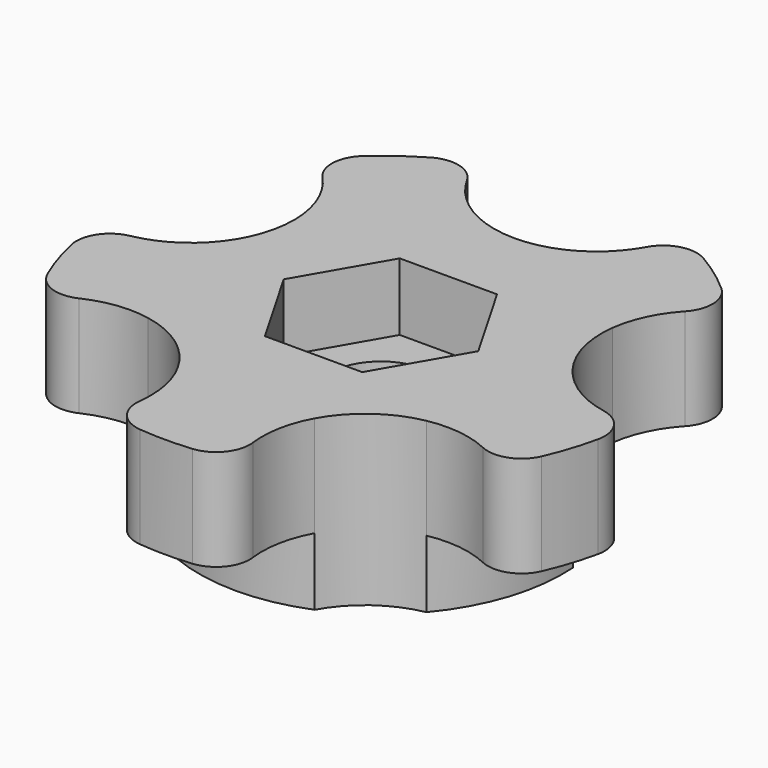
from build123d import *

# Parameters (mm, degrees)
F0_R     = 10.795
F1_DEPTH = 4
F3_DEPTH = 6
F4_R     = 2
F5_R     = 3.05
F6_DEPTH = 25
F8_DEPTH = 4
F9_DEPTH = 25


with BuildPart() as f1:
    # F0 (on Top) → F1 (new body)
    with BuildSketch(Plane.XY):
        Circle(F0_R)
    extrude(amount=F1_DEPTH)

    # F2 (on face) → F3 (join)
    with BuildSketch(Plane.XY.offset(4)):
        with BuildLine():
            ThreePointArc((10.7673628762, 0.7719596449), (9.4157239289, 3.0593541588), (9.164726046, 5.704368633))
            ThreePointArc((9.164726046, 5.704368633), (6.3451417985, 8.7333384543), (2.5931208628, 10.4789192759))
            ThreePointArc((2.5931208628, 10.4789192759), (0, 9.9002780251), (-2.5931208628, 10.4789192759))
            ThreePointArc((-2.5931208628, 10.4789192759), (-6.3451417985, 8.7333384543), (-9.164726046, 5.704368633))
            ThreePointArc((-9.164726046, 5.704368633), (-9.129079829, 5.3250630068), (-9.1171822858, 4.94427191))
            ThreePointArc((-9.1171822858, 4.94427191), (-9.5447100851, 2.7008768479), (-10.7673628762, 0.7719596449))
            ThreePointArc((-10.7673628762, 0.7719596449), (-10.2666550934, -3.3358384543), (-8.2572330568, -6.9534255763))
            ThreePointArc((-8.2572330568, -6.9534255763), (-5.8192374168, -8.0094931714), (-4.0614753639, -10.0018219774))
            ThreePointArc((-4.0614753639, -10.0018219774), (0, -10.795), (4.0614753639, -10.0018219774))
            ThreePointArc((4.0614753639, -10.0018219774), (5.8192374168, -8.0094931714), (8.2572330568, -6.9534255763))
            ThreePointArc((8.2572330568, -6.9534255763), (10.1407311336, -3.7010264895), (10.795, 0))
            ThreePointArc((10.795, 0), (10.7880885065, 0.3862271041), (10.7673628762, 0.7719596449))
        make_face()
        with BuildLine():
            ThreePointArc((9.164726046, 5.704368633), (10.1650587649, 8.3626728896), (12.2607475986, 10.2797893132))
            ThreePointArc((12.2607475986, 10.2797893132), (9.4045640367, 12.94427191), (5.9878812408, 14.8372934947))
            ThreePointArc((5.9878812408, 14.8372934947), (4.8121986381, 12.2517534182), (2.5931208628, 10.4789192759))
            ThreePointArc((2.5931208628, 10.4789192759), (6.3451417985, 8.7333384543), (9.164726046, 5.704368633))
        make_face()
        with BuildLine():
            ThreePointArc((-2.5931208628, 10.4789192759), (-4.8121986381, 12.2517534182), (-5.9878812408, 14.8372934947))
            ThreePointArc((-5.9878812408, 14.8372934947), (-9.4045640367, 12.94427191), (-12.2607475986, 10.2797893132))
            ThreePointArc((-12.2607475986, 10.2797893132), (-10.1650587649, 8.3626728896), (-9.164726046, 5.704368633))
            ThreePointArc((-9.164726046, 5.704368633), (-6.3451417985, 8.7333384543), (-2.5931208628, 10.4789192759))
        make_face()
        with BuildLine():
            ThreePointArc((-10.7673628762, 0.7719596449), (-13.1391610839, -0.7906728554), (-15.961461726, -1.1098376324))
            ThreePointArc((-15.961461726, -1.1098376324), (-15.2169042607, -4.94427191), (-13.5654399842, -8.4840343019))
            ThreePointArc((-13.5654399842, -8.4840343019), (-11.0945504525, -7.0833373356), (-8.2572330568, -6.9534255763))
            ThreePointArc((-8.2572330568, -6.9534255763), (-10.2666550934, -3.3358384543), (-10.7673628762, 0.7719596449))
        make_face()
        with BuildLine():
            ThreePointArc((-3.876844616, -15.5232108735), (0, -16), (3.876844616, -15.5232108735))
            ThreePointArc((3.876844616, -15.5232108735), (3.3082494954, -12.7404161168), (4.0614753639, -10.0018219774))
            ThreePointArc((4.0614753639, -10.0018219774), (0, -10.795), (-4.0614753639, -10.0018219774))
            ThreePointArc((-4.0614753639, -10.0018219774), (-3.4970280206, -11.4251845557), (-3.3048420618, -12.94427191))
            ThreePointArc((-3.3048420618, -12.94427191), (-3.4495594274, -14.2650778287), (-3.876844616, -15.5232108735))
        make_face()
        with BuildLine():
            ThreePointArc((13.5654399842, -8.4840343019), (15.2169042607, -4.94427191), (15.961461726, -1.1098376324))
            ThreePointArc((15.961461726, -1.1098376324), (13.1391610839, -0.7906728554), (10.7673628762, 0.7719596449))
            ThreePointArc((10.7673628762, 0.7719596449), (10.7880885065, 0.3862271041), (10.795, 0))
            ThreePointArc((10.795, 0), (10.1407311336, -3.7010264895), (8.2572330568, -6.9534255763))
            ThreePointArc((8.2572330568, -6.9534255763), (11.0945504525, -7.0833373356), (13.5654399842, -8.4840343019))
        make_face()
    extrude(amount=F3_DEPTH)

    # F4
    f4_edges = [f1.edges().sort_by_distance(p)[0] for p in [
        (-5.987881, 14.837293, 7),
        (-12.260748, 10.279789, 7),
        (-15.961462, -1.109838, 7),
        (-13.56544, -8.484034, 7),
        (-3.876845, -15.523211, 7),
        (3.876845, -15.523211, 7),
        (13.56544, -8.484034, 7),
        (15.961462, -1.109838, 7),
        (12.260748, 10.279789, 7),
        (5.987881, 14.837293, 7),
    ]]
    fillet(f4_edges, radius=F4_R)

    # F5 (on face) → F6 (cut)
    with BuildSketch(Plane.XY.offset(10)):
        Circle(F5_R)
    extrude(amount=-F6_DEPTH, mode=Mode.SUBTRACT)

    # F7 (on face) → F8 (cut)
    with BuildSketch(Plane.XY.offset(10)):
        Polygon((2.8867513459, -5), (5.7735026919, 0), (2.8867513459, 5), (-2.8867513459, 5), (-5.7735026919, 0), (-2.8867513459, -5), align=None)
    extrude(amount=-F8_DEPTH, mode=Mode.SUBTRACT)

    # F2 (on face) → F9 (cut)
    with BuildSketch(Plane.XY.offset(4)):
        with BuildLine():
            ThreePointArc((-9.1171822858, 4.94427191), (-9.129079829, 5.3250630068), (-9.164726046, 5.704368633))
            ThreePointArc((-9.164726046, 5.704368633), (-10.2666550934, 3.3358384543), (-10.7673628762, 0.7719596449))
            ThreePointArc((-10.7673628762, 0.7719596449), (-9.5447100851, 2.7008768479), (-9.1171822858, 4.94427191))
        make_face()
        with BuildLine():
            ThreePointArc((-2.5931208628, 10.4789192759), (0, 9.9002780251), (2.5931208628, 10.4789192759))
            ThreePointArc((2.5931208628, 10.4789192759), (0, 10.795), (-2.5931208628, 10.4789192759))
        make_face()
        with BuildLine():
            ThreePointArc((10.7673628762, 0.7719596449), (10.2666550934, 3.3358384543), (9.164726046, 5.704368633))
            ThreePointArc((9.164726046, 5.704368633), (9.4157239289, 3.0593541588), (10.7673628762, 0.7719596449))
        make_face()
        with BuildLine():
            ThreePointArc((4.0614753639, -10.0018219774), (6.3451417985, -8.7333384543), (8.2572330568, -6.9534255763))
            ThreePointArc((8.2572330568, -6.9534255763), (5.8192374168, -8.0094931714), (4.0614753639, -10.0018219774))
        make_face()
        with BuildLine():
            ThreePointArc((-8.2572330568, -6.9534255763), (-6.3451417985, -8.7333384543), (-4.0614753639, -10.0018219774))
            ThreePointArc((-4.0614753639, -10.0018219774), (-5.8192374168, -8.0094931714), (-8.2572330568, -6.9534255763))
        make_face()
    extrude(amount=-F9_DEPTH, mode=Mode.SUBTRACT)


solid = f1.part
